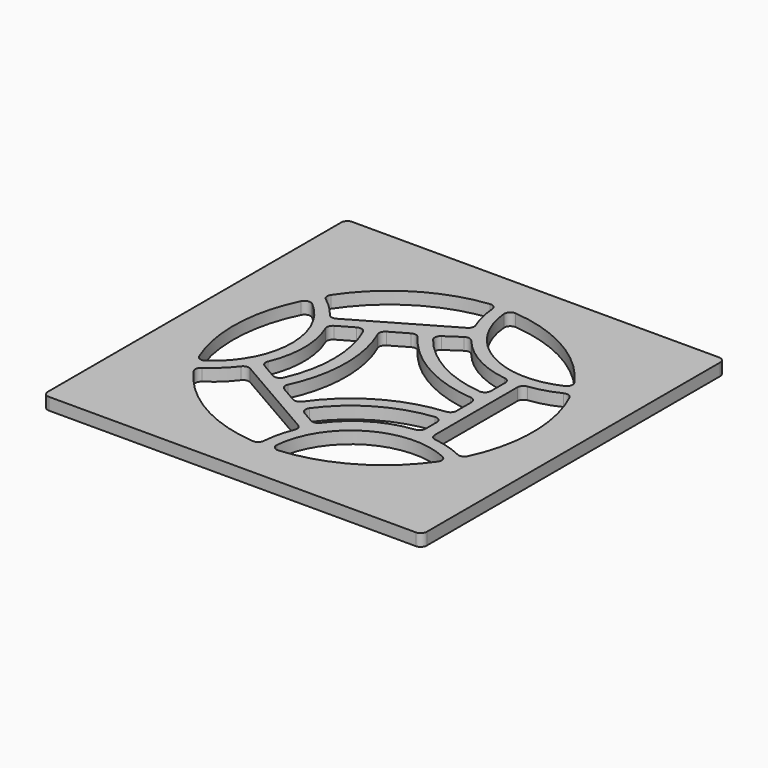
from build123d import *

# Parameters (mm, degrees)
F1_DEPTH = 6


with BuildPart() as f1:
    # F0 (on Top) → F1 (new body)
    with BuildSketch(Plane.XY):
        with BuildLine():
            Line((99.539605, 94.727916), (-81.460395, 94.727916))
            ThreePointArc((-81.460395, 94.727916), (-83.581716, 93.849236), (-84.460395, 91.727916))
            Line((-84.460395, 91.727916), (-84.460395, -89.272084))
            ThreePointArc((-84.460395, -89.272084), (-83.581716, -91.393405), (-81.460395, -92.272084))
            Line((-81.460395, -92.272084), (99.539605, -92.272084))
            ThreePointArc((99.539605, -92.272084), (101.660925, -91.393405), (102.539605, -89.272084))
            Line((102.539605, -89.272084), (102.539605, 91.727916))
            ThreePointArc((102.539605, 91.727916), (101.660925, 93.849236), (99.539605, 94.727916))
        make_face()
        with BuildLine():
            ThreePointArc((9.615662, -54.603753), (7.269883, -61.770541), (6.141787, -69.226607))
            ThreePointArc((6.141787, -69.226607), (5.104101, -71.300549), (2.89785, -72.015028))
            ThreePointArc((2.89785, -72.015028), (-27.710395, -62.424951), (-51.319768, -40.712472))
            ThreePointArc((-51.319768, -40.712472), (-51.804137, -38.444562), (-50.526893, -36.508929))
            ThreePointArc((-50.526893, -36.508929), (-44.633798, -31.803936), (-39.600068, -26.189038))
            ThreePointArc((-39.600068, -26.189038), (-37.802948, -25.058948), (-35.707818, -25.401249))
            Line((-35.707818, -25.401249), (8.351782, -50.839072))
            ThreePointArc((8.351782, -50.839072), (9.695789, -52.482357), (9.615662, -54.603753))
        make_face(mode=Mode.SUBTRACT)
        with BuildLine():
            ThreePointArc((-55.480573, 30.775598), (-53.42718, 32.382849), (-50.891278, 31.775494))
            ThreePointArc((-50.891278, 31.775494), (-36.41773, -0.091822), (-52.990603, -30.919558))
            ThreePointArc((-52.990603, -30.919558), (-55.561454, -31.355915), (-57.502732, -29.614904))
            ThreePointArc((-57.502732, -29.614904), (-62.984472, 0.797757), (-55.480573, 30.775598))
        make_face(mode=Mode.SUBTRACT)
        with BuildLine():
            ThreePointArc((15.448073, -71.992174), (13.062505, -71.122238), (12.198598, -68.734479))
            ThreePointArc((12.198598, -68.734479), (31.757227, -38.120161), (68.049318, -36.489051))
            ThreePointArc((68.049318, -36.489051), (69.685225, -38.431095), (69.245828, -40.932026))
            ThreePointArc((69.245828, -40.932026), (45.789605, -62.424951), (15.448073, -71.992174))
        make_face(mode=Mode.SUBTRACT)
        with BuildLine():
            ThreePointArc((3.7593, -41.259398), (2.324711, -39.284367), (2.833078, -36.896825))
            ThreePointArc((2.833078, -36.896825), (21.402309, -20.184916), (45.159862, -12.459445))
            ThreePointArc((45.159862, -12.459445), (47.481717, -13.212957), (48.474849, -15.442863))
            Line((48.474849, -15.442863), (48.474849, -22.475358))
            ThreePointArc((48.474849, -22.475358), (47.704242, -24.482796), (45.788312, -25.458937))
            ThreePointArc((45.788312, -25.458937), (27.818105, -31.297402), (13.776743, -43.940825))
            ThreePointArc((13.776743, -43.940825), (11.973415, -45.111999), (9.84962, -44.775645))
            Line((9.84962, -44.775645), (3.7593, -41.259398))
        make_face(mode=Mode.SUBTRACT)
        with BuildLine():
            ThreePointArc((-1.726285, 35.423831), (19.144031, 17.022716), (45.735172, 8.832332))
            ThreePointArc((45.735172, 8.832332), (47.686293, 7.870842), (48.474849, 5.843648))
            Line((48.474849, 5.843648), (48.474849, -3.387817))
            ThreePointArc((48.474849, -3.387817), (47.686293, -5.415011), (45.735172, -6.376501))
            ThreePointArc((45.735172, -6.376501), (18.402309, -14.988763), (-2.722561, -34.353586))
            ThreePointArc((-2.722561, -34.353586), (-4.530796, -35.562562), (-6.680676, -35.231874))
            Line((-6.680676, -35.231874), (-14.675359, -30.616142))
            ThreePointArc((-14.675359, -30.616142), (-16.036683, -28.919635), (-15.893797, -26.749169))
            ThreePointArc((-15.893797, -26.749169), (-9.691308, 0.374626), (-15.191982, 27.649407))
            ThreePointArc((-15.191982, 27.649407), (-15.291169, 29.786156), (-13.941714, 31.445826))
            Line((-13.941714, 31.445826), (-5.639215, 36.239276))
            ThreePointArc((-5.639215, 36.239276), (-3.527171, 36.578104), (-1.726285, 35.423831))
        make_face(mode=Mode.SUBTRACT)
        with BuildLine():
            Line((54.474849, -24.209906), (54.474849, 26.665738))
            ThreePointArc((54.474849, 26.665738), (55.225973, 28.651325), (57.103219, 29.642631))
            ThreePointArc((57.103219, 29.642631), (64.482729, 31.19452), (71.50392, 33.945594))
            ThreePointArc((71.50392, 33.945594), (73.818849, 34.083902), (75.540732, 32.530472))
            ThreePointArc((75.540732, 32.530472), (82.539605, 1.227916), (75.540732, -30.074641))
            ThreePointArc((75.540732, -30.074641), (73.818849, -31.628071), (71.50392, -31.489762))
            ThreePointArc((71.50392, -31.489762), (64.482729, -28.738689), (57.103219, -27.186799))
            ThreePointArc((57.103219, -27.186799), (55.225973, -26.195493), (54.474849, -24.209906))
        make_face(mode=Mode.SUBTRACT)
        with BuildLine():
            ThreePointArc((-33.971698, 18.896247), (-34.051825, 21.017643), (-32.707818, 22.660928))
            Line((-32.707818, 22.660928), (-25.115336, 27.04445))
            ThreePointArc((-25.115336, 27.04445), (-22.687615, 27.299325), (-20.874126, 25.665295))
            ThreePointArc((-20.874126, 25.665295), (-15.685803, 1.227916), (-20.874126, -23.209464))
            ThreePointArc((-20.874126, -23.209464), (-22.687615, -24.843494), (-25.115336, -24.588619))
            Line((-25.115336, -24.588619), (-32.707818, -20.205097))
            ThreePointArc((-32.707818, -20.205097), (-34.051825, -18.561812), (-33.971698, -16.440416))
            ThreePointArc((-33.971698, -16.440416), (-30.39564, 1.227916), (-33.971698, 18.896247))
        make_face(mode=Mode.SUBTRACT)
        with BuildLine():
            ThreePointArc((-39.600068, 28.644869), (-43.965035, 33.61509), (-49.005428, 37.898835))
            ThreePointArc((-49.005428, 37.898835), (-50.187345, 39.792027), (-49.734823, 41.977509))
            ThreePointArc((-49.734823, 41.977509), (-27.029704, 63.944863), (2.799576, 74.351643))
            ThreePointArc((2.799576, 74.351643), (5.068332, 73.684327), (6.148737, 71.58069))
            ThreePointArc((6.148737, 71.58069), (7.281697, 64.176766), (9.615662, 57.059584))
            ThreePointArc((9.615662, 57.059584), (9.695789, 54.938188), (8.351782, 53.294903))
            Line((8.351782, 53.294903), (-35.707818, 27.857081))
            ThreePointArc((-35.707818, 27.857081), (-37.802948, 27.51478), (-39.600068, 28.644869))
        make_face(mode=Mode.SUBTRACT)
        with BuildLine():
            ThreePointArc((48.474849, 17.898695), (47.481717, 15.668789), (45.159862, 14.915277))
            ThreePointArc((45.159862, 14.915277), (22.460423, 22.04401), (4.301384, 37.417126))
            ThreePointArc((4.301384, 37.417126), (3.689978, 39.739023), (4.977435, 41.765714))
            Line((4.977435, 41.765714), (12.22419, 46.650974))
            ThreePointArc((12.22419, 46.650974), (14.341654, 47.130905), (16.228378, 46.056541))
            ThreePointArc((16.228378, 46.056541), (29.451174, 34.987266), (45.84648, 29.642631))
            ThreePointArc((45.84648, 29.642631), (47.723726, 28.651325), (48.474849, 26.665738))
            Line((48.474849, 26.665738), (48.474849, 17.898695))
        make_face(mode=Mode.SUBTRACT)
        with BuildLine():
            ThreePointArc((69.245828, 43.387857), (69.685225, 40.886926), (68.049318, 38.944882))
            ThreePointArc((68.049318, 38.944882), (31.757227, 40.575992), (12.198598, 71.19031))
            ThreePointArc((12.198598, 71.19031), (13.062505, 73.578069), (15.448073, 74.448005))
            ThreePointArc((15.448073, 74.448005), (45.789605, 64.880783), (69.245828, 43.387857))
        make_face(mode=Mode.SUBTRACT)
    extrude(amount=F1_DEPTH)


solid = f1.part
